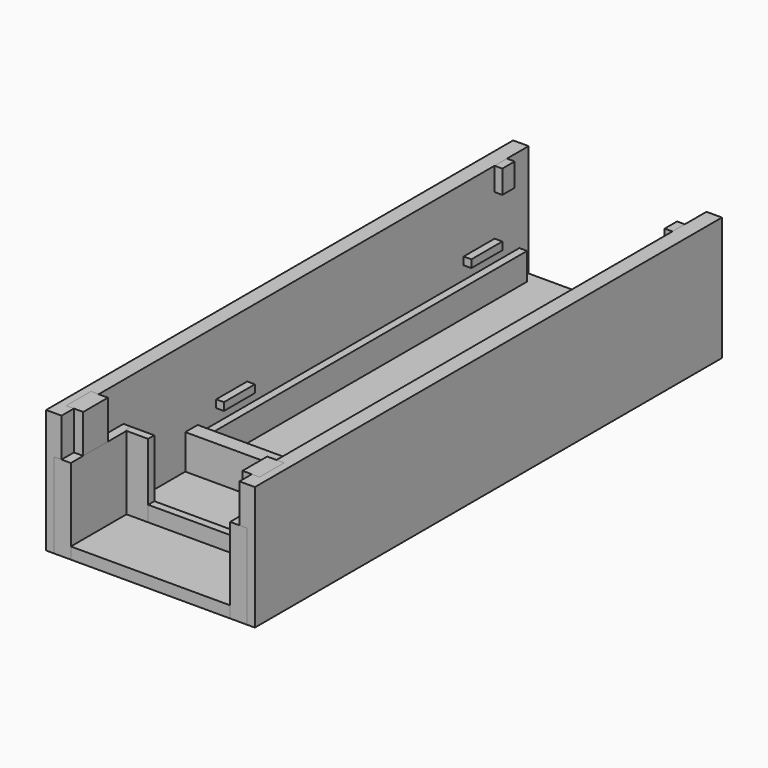
from build123d import *

# Parameters (mm, degrees)
BOX_W        = 25
BOX_H        = 75.5
BOX_DEPTH    = 1.5
BOX001_W     = 2
BOX001_H     = 54
BOX001_DEPTH = 3.5
BOX002_W     = 2
BOX002_H     = 75.5
BOX002_DEPTH = 16
BOX005_W     = 2
BOX005_H     = 54
BOX005_DEPTH = 3.5
BOX006_W     = 2
BOX006_H     = 75.5
BOX006_DEPTH = 16
BOX007_W     = 25
BOX007_H     = 2
BOX007_DEPTH = 4.5
BOX008_W     = 2
BOX008_H     = 5
BOX008_DEPTH = 1
BOX009_W     = 2
BOX009_H     = 5
BOX009_DEPTH = 1
BOX012_W     = 2
BOX012_H     = 5
BOX012_DEPTH = 1
BOX014_W     = 2
BOX014_H     = 5
BOX014_DEPTH = 1
BOX015_W     = 2.2
BOX015_H     = 10
BOX015_DEPTH = 11
BOX016_W     = 2.2
BOX016_H     = 10
BOX016_DEPTH = 11
BOX017_W     = 23
BOX017_H     = 1
BOX017_DEPTH = 3.5
BOX018_W     = 2.2
BOX018_H     = 4
BOX018_DEPTH = 5
BOX019_W     = 2.2
BOX019_H     = 4
BOX019_DEPTH = 5
BOX020_W     = 3
BOX020_H     = 1
BOX020_DEPTH = 10
BOX021_W     = 3
BOX021_H     = 1
BOX021_DEPTH = 10
BOX022_W     = 1
BOX022_H     = 2
BOX022_DEPTH = 3
BOX023_W     = 1
BOX023_H     = 2
BOX023_DEPTH = 3


with BuildPart() as obj1:
    # Box → Box (new body)
    with BuildSketch(Plane(origin=(0, -20, 0), x_dir=(1, 0, 0), z_dir=(0, 0, 1))):
        with Locations((12.5, 37.75)):
            Rectangle(BOX_W, BOX_H)
    extrude(amount=BOX_DEPTH)


with BuildPart() as obj2:
    # Box001 → Box001 (new body)
    with BuildSketch(Plane.XY.offset(1.5)):
        with Locations((1, 27)):
            Rectangle(BOX001_W, BOX001_H)
    extrude(amount=BOX001_DEPTH)


with BuildPart() as obj3:
    # Box002 → Box002 (new body)
    with BuildSketch(Plane(origin=(-1, -20, 0), x_dir=(1, 0, 0), z_dir=(0, 0, 1))):
        with Locations((1, 37.75)):
            Rectangle(BOX002_W, BOX002_H)
    extrude(amount=BOX002_DEPTH)


with BuildPart() as obj4:
    # Box005 → Box005 (new body)
    with BuildSketch(Plane(origin=(23, 0, 1.5), x_dir=(1, 0, 0), z_dir=(0, 0, 1))):
        with Locations((1, 27)):
            Rectangle(BOX005_W, BOX005_H)
    extrude(amount=BOX005_DEPTH)


with BuildPart() as obj5:
    # Box006 → Box006 (new body)
    with BuildSketch(Plane(origin=(24, -20, 0), x_dir=(1, 0, 0), z_dir=(0, 0, 1))):
        with Locations((1, 37.75)):
            Rectangle(BOX006_W, BOX006_H)
    extrude(amount=BOX006_DEPTH)


with BuildPart() as obj6:
    # Box007 → Box007 (new body)
    with BuildSketch(Plane.XY.offset(1.5)):
        with Locations((12.5, 1)):
            Rectangle(BOX007_W, BOX007_H)
    extrude(amount=BOX007_DEPTH)


with BuildPart() as obj7:
    # Box008 → Box008 (new body)
    with BuildSketch(Plane(origin=(0, 5, 6.7), x_dir=(1, 0, 0), z_dir=(0, 0, 1))):
        with Locations((1, 2.5)):
            Rectangle(BOX008_W, BOX008_H)
    extrude(amount=BOX008_DEPTH)


with BuildPart() as obj8:
    # Box009 → Box009 (new body)
    with BuildSketch(Plane(origin=(0, 45, 6.7), x_dir=(1, 0, 0), z_dir=(0, 0, 1))):
        with Locations((1, 2.5)):
            Rectangle(BOX009_W, BOX009_H)
    extrude(amount=BOX009_DEPTH)


with BuildPart() as obj9:
    # Box012 → Box012 (new body)
    with BuildSketch(Plane(origin=(23, 5, 6.7), x_dir=(1, 0, 0), z_dir=(0, 0, 1))):
        with Locations((1, 2.5)):
            Rectangle(BOX012_W, BOX012_H)
    extrude(amount=BOX012_DEPTH)


with BuildPart() as obj10:
    # Box014 → Box014 (new body)
    with BuildSketch(Plane(origin=(23, 45, 6.7), x_dir=(1, 0, 0), z_dir=(0, 0, 1))):
        with Locations((1, 2.5)):
            Rectangle(BOX014_W, BOX014_H)
    extrude(amount=BOX014_DEPTH)


with BuildPart() as obj11:
    # Box015 → Box015 (new body)
    with BuildSketch(Plane(origin=(0, -20, 0), x_dir=(1, 0, 0), z_dir=(0, 0, 1))):
        with Locations((1.1, 5)):
            Rectangle(BOX015_W, BOX015_H)
    extrude(amount=BOX015_DEPTH)


with BuildPart() as obj12:
    # Box016 → Box016 (new body)
    with BuildSketch(Plane(origin=(22.8, -20, 0), x_dir=(1, 0, 0), z_dir=(0, 0, 1))):
        with Locations((1.1, 5)):
            Rectangle(BOX016_W, BOX016_H)
    extrude(amount=BOX016_DEPTH)


with BuildPart() as obj13:
    # Box017 → Box017 (new body)
    with BuildSketch(Plane(origin=(1, -11, 0), x_dir=(1, 0, 0), z_dir=(0, 0, 1))):
        with Locations((11.5, 0.5)):
            Rectangle(BOX017_W, BOX017_H)
    extrude(amount=BOX017_DEPTH)


with BuildPart() as obj14:
    # Box018 → Box018 (new body)
    with BuildSketch(Plane(origin=(0, -18, 11), x_dir=(1, 0, 0), z_dir=(0, 0, 1))):
        with Locations((1.1, 2)):
            Rectangle(BOX018_W, BOX018_H)
    extrude(amount=BOX018_DEPTH)


with BuildPart() as obj15:
    # Box019 → Box019 (new body)
    with BuildSketch(Plane(origin=(22.8, -18, 11), x_dir=(1, 0, 0), z_dir=(0, 0, 1))):
        with Locations((1.1, 2)):
            Rectangle(BOX019_W, BOX019_H)
    extrude(amount=BOX019_DEPTH)


with BuildPart() as obj16:
    # Box020 → Box020 (new body)
    with BuildSketch(Plane(origin=(2, -11, 1), x_dir=(1, 0, 0), z_dir=(0, 0, 1))):
        with Locations((1.5, 0.5)):
            Rectangle(BOX020_W, BOX020_H)
    extrude(amount=BOX020_DEPTH)


with BuildPart() as obj17:
    # Box021 → Box021 (new body)
    with BuildSketch(Plane(origin=(20, -11, 1), x_dir=(1, 0, 0), z_dir=(0, 0, 1))):
        with Locations((1.5, 0.5)):
            Rectangle(BOX021_W, BOX021_H)
    extrude(amount=BOX021_DEPTH)


with BuildPart() as obj18:
    # Box022 → Box022 (new body)
    with BuildSketch(Plane(origin=(1, 50, 13), x_dir=(1, 0, 0), z_dir=(0, 0, 1))):
        with Locations((0.5, 1)):
            Rectangle(BOX022_W, BOX022_H)
    extrude(amount=BOX022_DEPTH)


with BuildPart() as obj19:
    # Box023 → Box023 (new body)
    with BuildSketch(Plane(origin=(23, 50, 13), x_dir=(1, 0, 0), z_dir=(0, 0, 1))):
        with Locations((0.5, 1)):
            Rectangle(BOX023_W, BOX023_H)
    extrude(amount=BOX023_DEPTH)


solid = Compound([obj1.part, obj2.part, obj3.part, obj4.part, obj5.part, obj6.part, obj7.part, obj8.part, obj9.part, obj10.part, obj11.part, obj12.part, obj13.part, obj14.part, obj15.part, obj16.part, obj17.part, obj18.part, obj19.part])
